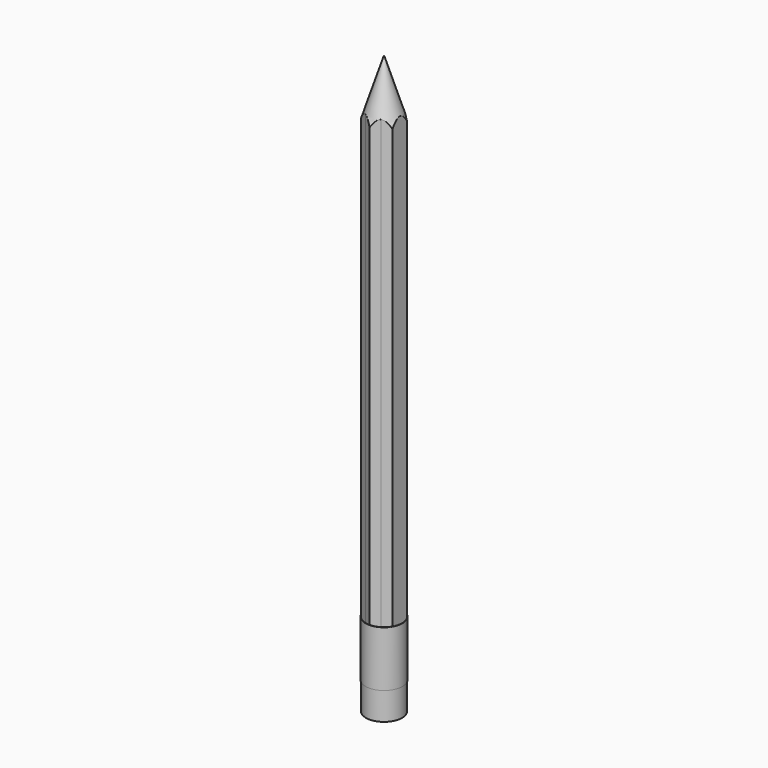
from build123d import *

# Parameters (mm, degrees)
F1_DEPTH = 190.5
F2_R     = 6.7261135768
F3_DEPTH = 10.16
F4_R     = 6.5991135768
F5_DEPTH = 20.32


with BuildPart() as f1:
    # F0 (on Top) → F1 (new body)
    with BuildSketch(Plane.XY):
        with BuildLine():
            ThreePointArc((-5.715, 0), (-4.9493351932, 2.8574999817), (-2.8575000366, 4.9493351615))
            Line((-2.8575000366, 4.9493351615), (-5.715, 3.2995567884))
            Line((-5.715, 3.2995567884), (-5.715, 0))
        make_face()
        with BuildLine():
            ThreePointArc((-2.8575000366, 4.9493351615), (-1.92e-08, 5.715), (2.8575000033, 4.9493351807))
            Line((2.8575000033, 4.9493351807), (0, 6.5991135768))
            Line((0, 6.5991135768), (-2.8575000366, 4.9493351615))
        make_face()
        with BuildLine():
            ThreePointArc((2.8574998767, -4.9493352538), (4.949335147, -2.8575000617), (5.715, 0))
            ThreePointArc((5.715, 0), (4.9493351836, 2.8574999984), (2.8575000033, 4.9493351807))
            ThreePointArc((2.8575000033, 4.9493351807), (-1.92e-08, 5.715), (-2.8575000366, 4.9493351615))
            ThreePointArc((-2.8575000366, 4.9493351615), (-4.9493351932, 2.8574999817), (-5.715, 0))
            ThreePointArc((-5.715, 0), (-4.9493352014, -2.8574999675), (-2.857500065, -4.9493351451))
            ThreePointArc((-2.857500065, -4.9493351451), (-1.087e-07, -5.715), (2.8574998767, -4.9493352538))
        make_face()
        with BuildLine():
            ThreePointArc((2.8575000033, 4.9493351807), (4.9493351836, 2.8574999984), (5.715, 0))
            Line((5.715, 0), (5.715, 3.2995567884))
            Line((5.715, 3.2995567884), (2.8575000033, 4.9493351807))
        make_face()
        with BuildLine():
            Line((5.715, -3.2995567884), (5.715, 0))
            ThreePointArc((5.715, 0), (4.949335147, -2.8575000617), (2.8574998767, -4.9493352538))
            Line((2.8574998767, -4.9493352538), (5.715, -3.2995567884))
        make_face()
        with BuildLine():
            Line((0, -6.5991135768), (2.8574998767, -4.9493352538))
            ThreePointArc((2.8574998767, -4.9493352538), (-1.087e-07, -5.715), (-2.857500065, -4.9493351451))
            Line((-2.857500065, -4.9493351451), (0, -6.5991135768))
        make_face()
        with BuildLine():
            Line((-5.715, -3.2995567884), (-2.857500065, -4.9493351451))
            ThreePointArc((-2.857500065, -4.9493351451), (-4.9493352014, -2.8574999675), (-5.715, 0))
            Line((-5.715, 0), (-5.715, -3.2995567884))
        make_face()
    extrude(amount=F1_DEPTH)

    # F7 (on Front) → F9 (revolve, cut)
    with BuildSketch(Plane.XZ):
        Polygon((6.5978481434, 190.5), (0.0952213444, 190.5), (6.5978481434, 170.18), align=None)
    revolve(axis=Axis((0, 0, 95.25), (0, 0, 1)), mode=Mode.SUBTRACT)


with BuildPart() as f3:
    # F2 (on face) → F3 (new body, symmetric)
    with BuildSketch(Plane(origin=(0, 0, 0), x_dir=(1, 0, 0), z_dir=(0, 0, -1))):
        Circle(F2_R)
        with BuildLine():
            ThreePointArc((5.715, 3.2995567884), (6.3742542345, 1.7079762745), (6.5991135768, 0))
            ThreePointArc((6.5991135768, 0), (6.3742542345, -1.7079762745), (5.715, -3.2995567884))
            ThreePointArc((5.715, -3.2995567884), (3.2995567884, -5.715), (0, -6.5991135768))
            ThreePointArc((0, -6.5991135768), (-3.2995567884, -5.715), (-5.715, -3.2995567884))
            ThreePointArc((-5.715, -3.2995567884), (-6.5991135768, 0), (-5.715, 3.2995567884))
            ThreePointArc((-5.715, 3.2995567884), (-3.2995567884, 5.715), (0, 6.5991135768))
            ThreePointArc((0, 6.5991135768), (3.2995567884, 5.715), (5.715, 3.2995567884))
        make_face(mode=Mode.SUBTRACT)
    extrude(amount=F3_DEPTH, both=True)


with BuildPart() as f5:
    # F4 (on face) → F5 (new body)
    with BuildSketch(Plane(origin=(0, 0, 0), x_dir=(1, 0, 0), z_dir=(0, 0, -1))):
        Circle(F4_R)
    extrude(amount=F5_DEPTH)


solid = Compound([f1.part, f3.part, f5.part])
